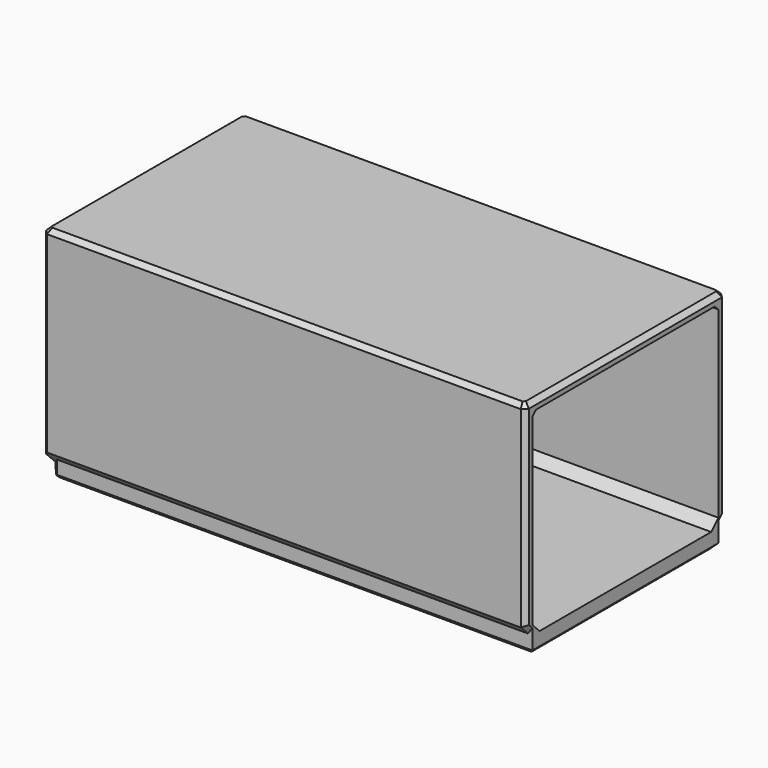
from build123d import *

# Parameters (mm, degrees)
SKETCH_W        = 54
SKETCH_H        = 26
SKETCH_R        = 1.1
SKETCH_W_2      = 9
SKETCH_H_2      = 6.2
PAD_DEPTH       = 2
SKETCH001_W     = 54
SKETCH001_H     = 28
SKETCH001_W_2   = 52
SKETCH001_H_2   = 26
PAD001_DEPTH    = 10
PAD002_DEPTH    = 52
POCKET_DEPTH    = 54.001
SKETCH004_W     = 54
SKETCH004_H     = 28
SKETCH004_W_2   = 52
SKETCH004_H_2   = 26
PAD003_DEPTH    = 12
SKETCH005_W     = 54
SKETCH005_H     = 28
PAD004_DEPTH    = 1
POCKET001_DEPTH = 5
CHAMFER_SIZE    = 0.5
CHAMFER001_SIZE = 0.5
CHAMFER002_SIZE = 0.5
CHAMFER003_SIZE = 0.8
CHAMFER004_SIZE = 0.5


with BuildPart() as part:
    # Sketch → Pad (new body)
    with BuildSketch(Plane.XY):
        with Locations((27, 13)):
            Rectangle(SKETCH_W, SKETCH_H)
        with Locations((40.5, 13)):
            Circle(SKETCH_R, mode=Mode.SUBTRACT)
        with Locations((18.5, 13)):
            Rectangle(SKETCH_W_2, SKETCH_H_2, mode=Mode.SUBTRACT)
    extrude(amount=PAD_DEPTH)

    # Sketch001 (on Face11 of Pad) → Pad001 (join)
    with BuildSketch(Plane.XY.offset(2)):
        with Locations((27, 13)):
            Rectangle(SKETCH001_W, SKETCH001_H)
        with Locations((27, 13)):
            Rectangle(SKETCH001_W_2, SKETCH001_H_2, mode=Mode.SUBTRACT)
    extrude(amount=PAD001_DEPTH)

    # Sketch002 (on Face22 of Pad001) → Pad002 (join)
    with BuildSketch(Plane.YZ.offset(1)):
        Polygon((0, 2), (0, 3), (1, 2), align=None)
        Polygon((26, 2), (26, 3), (25, 2), align=None)
    extrude(amount=PAD002_DEPTH)

    # Sketch003 (on Face8 of Pad002) → Pocket (cut, through all)
    with BuildSketch(Plane.YZ.offset(54)):
        Polygon((-1, 2), (-1, 3), (0, 2), align=None)
        Polygon((27, 2), (27, 3), (26, 2), align=None)
    extrude(amount=-POCKET_DEPTH, mode=Mode.SUBTRACT)

    # Sketch004 (on Face17 of Pocket) → Pad003 (join)
    with BuildSketch(Plane.XY.offset(12)):
        with Locations((27, 13)):
            Rectangle(SKETCH004_W, SKETCH004_H)
        with Locations((27, 13)):
            Rectangle(SKETCH004_W_2, SKETCH004_H_2, mode=Mode.SUBTRACT)
    extrude(amount=PAD003_DEPTH)

    # Sketch005 (on Face22 of Pad003) → Pad004 (join)
    with BuildSketch(Plane.XY.offset(24)):
        with Locations((27, 13)):
            Rectangle(SKETCH005_W, SKETCH005_H)
    extrude(amount=PAD004_DEPTH)

    # Sketch006 (on Face26 of Pad004) → Pocket001 (cut)
    with BuildSketch(Plane(origin=(53, 0, 0), x_dir=(0, -1, 0), z_dir=(-1, 0, 0))):
        Polygon((-26, 24), (0, 24), (0, 3), (-1, 2), (-25, 2), (-26, 3), align=None)
    extrude(amount=-POCKET001_DEPTH, mode=Mode.SUBTRACT)

    # Chamfer
    chamfer_edges = [part.edges().sort_by_distance(p)[0] for p in [
        (54, -1, 24.5),
        (54, -1, 18),
        (54, -1, 7.5),
        (54, 27, 24.5),
        (54, 27, 18),
        (54, 27, 7.5),
        (54, -0.5, 2.5),
        (54, 26.5, 2.5),
        (0, 27, 7.5),
        (0, 27, 18),
        (0, 27, 24.5),
        (0, -1, 7.5),
        (0, -1, 18),
        (0, -1, 24.5),
    ]]
    chamfer(chamfer_edges, length=CHAMFER_SIZE)

    # Chamfer001
    chamfer001_edges = [part.edges().sort_by_distance(p)[0] for p in [
        (27, 27, 25),
        (0.25, 26.75, 25),
        (0, 13, 25),
        (0.25, -0.75, 25),
        (27, -1, 25),
        (53.75, -0.75, 25),
        (54, 13, 25),
        (53.75, 26.75, 25),
    ]]
    chamfer(chamfer001_edges, length=CHAMFER001_SIZE)

    # Chamfer002
    chamfer002_edges = [part.edges().sort_by_distance(p)[0] for p in [
        (27, 0, 24),
        (27, 26, 24),
        (1, 13, 24),
        (1, 26, 18),
        (1, 26, 7.5),
        (1, 0, 7.5),
        (1, 0, 18),
    ]]
    chamfer(chamfer002_edges, length=CHAMFER002_SIZE)

    # Chamfer003
    chamfer003_edges = [part.edges().sort_by_distance(p)[0] for p in [
        (0, 0, 1),
        (0, 13, 0),
        (0, 26, 1),
    ]]
    chamfer(chamfer003_edges, length=CHAMFER003_SIZE)

    # Chamfer004
    chamfer004_edges = [part.edges().sort_by_distance(p)[0] for p in [
        (27.4, 0, 0),
        (54, 13, 0),
        (27.4, 26, 0),
    ]]
    chamfer(chamfer004_edges, length=CHAMFER004_SIZE)


solid = part.part
